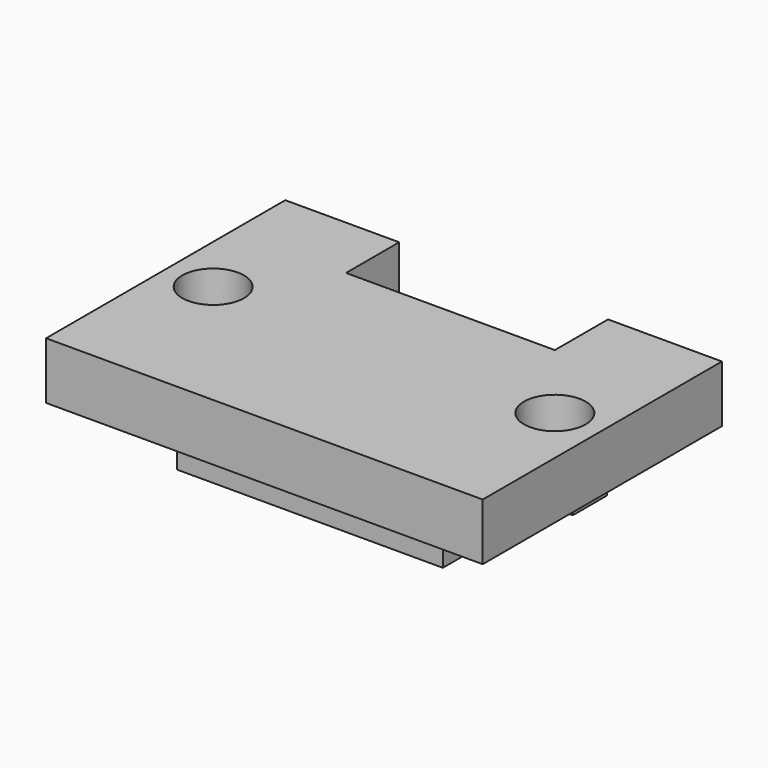
from build123d import *

# Parameters (mm, degrees)
F0_W      = 23
F0_H      = 9.25
F1_DEPTH  = 3
F3_DEPTH  = 3.6
F4_W      = 11
F4_H      = 3.5
F5_DEPTH  = 6.601
F7_DEPTH  = 0.75
F8_DEPTH  = 3.501
F9_DEPTH  = 3.5
F11_DEPTH = 3
F12_R     = 1.625
F13_DEPTH = 3.001


with BuildPart() as f1:
    # F0 (on Top) → F1 (new body)
    with BuildSketch(Plane.XY):
        Rectangle(F0_W, F0_H)
    extrude(amount=F1_DEPTH)

    # F2 (on face) → F3 (join)
    with BuildSketch(Plane(origin=(0, 0, 0), x_dir=(1, 0, 0), z_dir=(0, 0, -1))):
        Polygon((7, 4.625), (-7, 4.625), (-7, 1.125), (-8.25, 1.125), (-8.25, -1.125), (-5.5, -1.125), (-5.5, -4.625), (5.5, -4.625), (5.5, -1.125), (8.25, -1.125), (8.25, 1.125), (7, 1.125), align=None)
    extrude(amount=F3_DEPTH)

    # F4 (on face) → F5 (cut, through all)
    with BuildSketch(Plane(origin=(0, 0, -3.6), x_dir=(1, 0, 0), z_dir=(0, 0, -1))):
        with Locations((0, -2.875)):
            Rectangle(F4_W, F4_H)
    extrude(amount=-F5_DEPTH, mode=Mode.SUBTRACT)

    # F6 (on face) → F7 (cut)
    with BuildSketch(Plane(origin=(0, 0, -3.6), x_dir=(1, 0, 0), z_dir=(0, 0, -1))):
        Polygon((-8.25, -1.125), (8.25, -1.125), (8.25, 1.125), (7, 1.125), (-7, 1.125), (-8.25, 1.125), align=None)
    extrude(amount=-F7_DEPTH, mode=Mode.SUBTRACT)

    # F8 (cut, through all): a face of the model
    f8_faces = [f1.faces().sort_by_distance(p)[0] for p in [
        (0, -1.125, -3.225),
    ]]
    extrude(f8_faces, amount=-F8_DEPTH, mode=Mode.SUBTRACT)

    # F9 (add): a face of the model
    f9_faces = [f1.faces().sort_by_distance(p)[0] for p in [
        (0, -4.625, 0.4283057851),
    ]]
    extrude(f9_faces, amount=F9_DEPTH)

    # F10 (on face) → F11 (join)
    with BuildSketch(Plane.XZ.offset(8.125)):
        Polygon((11.5, 3), (-11.5, 3), (-11.5, 0), (-7, 0), (7, 0), (11.5, 0), align=None)
    extrude(amount=F11_DEPTH)

    # F12 (on face) → F13 (cut, through all)
    with BuildSketch(Plane(origin=(0, 0, 0), x_dir=(1, 0, 0), z_dir=(0, 0, -1))):
        with Locations((-9, 3.25)):
            Circle(F12_R)
        with Locations((9, 3.25)):
            Circle(F12_R)
    extrude(amount=-F13_DEPTH, mode=Mode.SUBTRACT)


solid = f1.part
